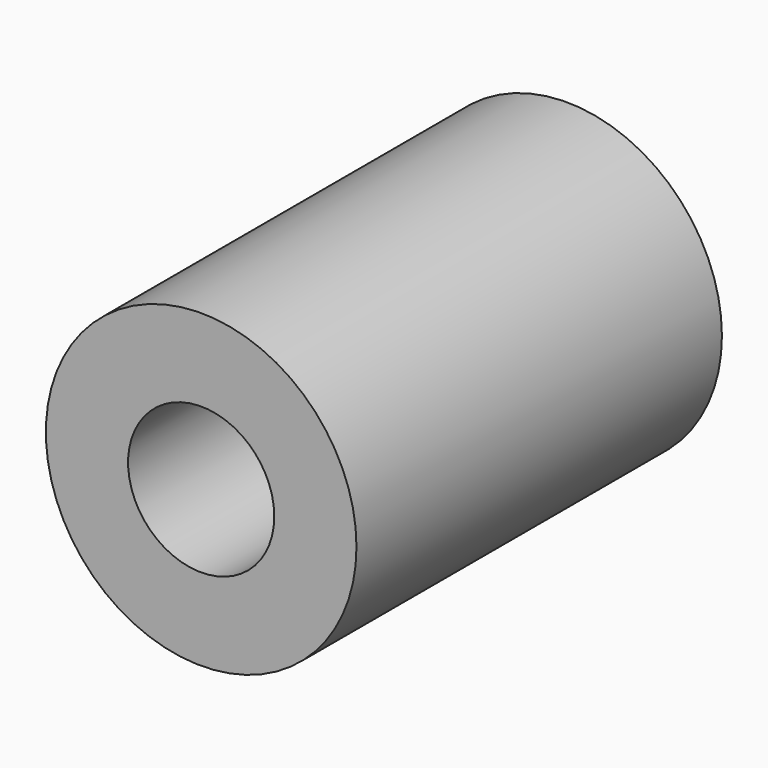
from build123d import *

# Parameters (mm, degrees)
SKETCH_R   = 8.5
SKETCH_R_2 = 4
PAD_DEPTH  = 25


with BuildPart() as part:
    # Sketch → Pad (new body)
    with BuildSketch(Plane.XZ):
        Circle(SKETCH_R)
        Circle(SKETCH_R_2, mode=Mode.SUBTRACT)
    extrude(amount=PAD_DEPTH)


solid = part.part
